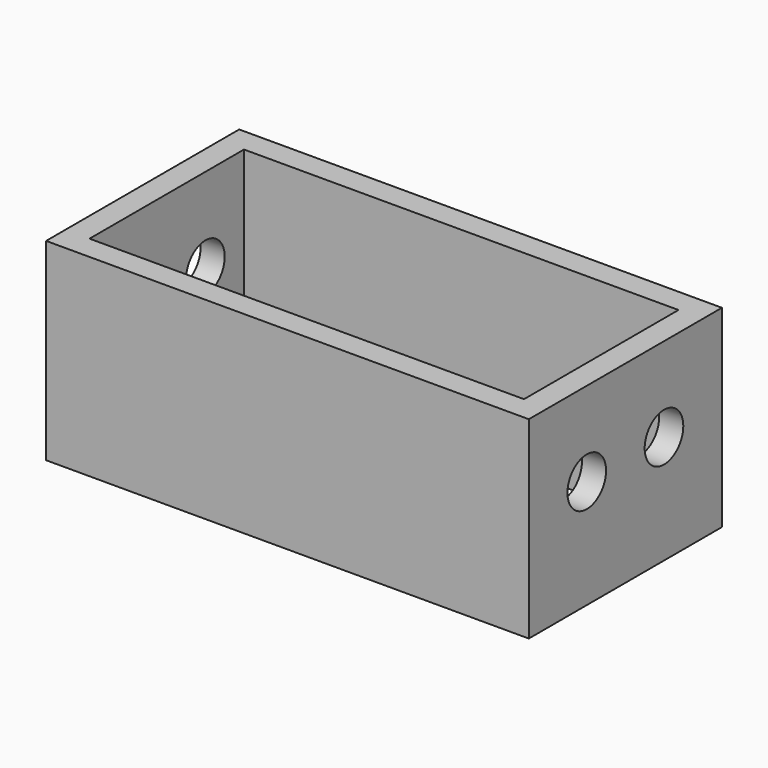
from build123d import *

# Parameters (mm, degrees)
SKETCH_W     = 100
SKETCH_H     = 50
SKETCH_W_2   = 90
SKETCH_H_2   = 40
PAD_DEPTH    = 40
SKETCH001_W  = 40
SKETCH001_H  = 40
PAD001_DEPTH = 5
SKETCH002_R  = 5
POCKET_DEPTH = 100.001


with BuildPart() as part:
    # Sketch → Pad (new body)
    with BuildSketch(Plane.XY):
        Rectangle(SKETCH_W, SKETCH_H)
        Rectangle(SKETCH_W_2, SKETCH_H_2, mode=Mode.SUBTRACT)
    extrude(amount=PAD_DEPTH)

    # Sketch001 → Pad001 (join)
    with BuildSketch(Plane.XY):
        Rectangle(SKETCH001_W, SKETCH001_H)
    extrude(amount=PAD001_DEPTH)

    # Sketch002 (on Face3 of Pad001) → Pocket (cut, through all)
    with BuildSketch(Plane.YZ.offset(50)):
        with Locations((10, 22.5)):
            Circle(SKETCH002_R)
        with Locations((-10, 22.5)):
            Circle(SKETCH002_R)
    extrude(amount=-POCKET_DEPTH, mode=Mode.SUBTRACT)


solid = part.part
